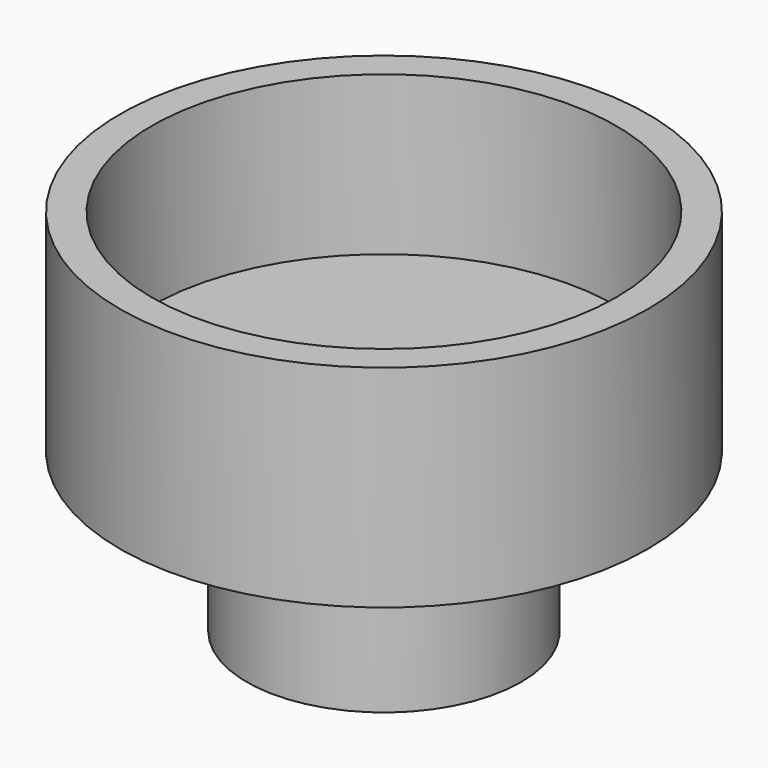
from build123d import *

# Parameters (mm, degrees)
F0_R      = 25
F1_DEPTH  = 20
F2_R      = 13
F3_DEPTH  = 15
F4_R      = 22
F5_DEPTH  = 15
F6_R      = 6
F7_DEPTH  = 35.001
F9_R      = 2.5
F10_DEPTH = 25


with BuildPart() as f1:
    # F0 (on Top) → F1 (new body)
    with BuildSketch(Plane.XY):
        Circle(F0_R)
    extrude(amount=F1_DEPTH)

    # F2 (on face) → F3 (join)
    with BuildSketch(Plane(origin=(0, 0, 0), x_dir=(1, 0, 0), z_dir=(0, 0, -1))):
        Circle(F2_R)
    extrude(amount=F3_DEPTH)

    # F4 (on face) → F5 (cut)
    with BuildSketch(Plane.XY.offset(20)):
        Circle(F4_R)
    extrude(amount=-F5_DEPTH, mode=Mode.SUBTRACT)

    # F6 (on face) → F7 (cut, through all)
    with BuildSketch(Plane(origin=(0, 0, -15), x_dir=(1, 0, 0), z_dir=(0, 0, -1))):
        Circle(F6_R)
    extrude(amount=-F7_DEPTH, mode=Mode.SUBTRACT)

    # F9 (on offset) → F10 (cut)
    with BuildSketch(Plane.YZ.offset(-25)):
        with Locations((0, -7.5)):
            Circle(F9_R)
    extrude(amount=F10_DEPTH, mode=Mode.SUBTRACT)


solid = f1.part
